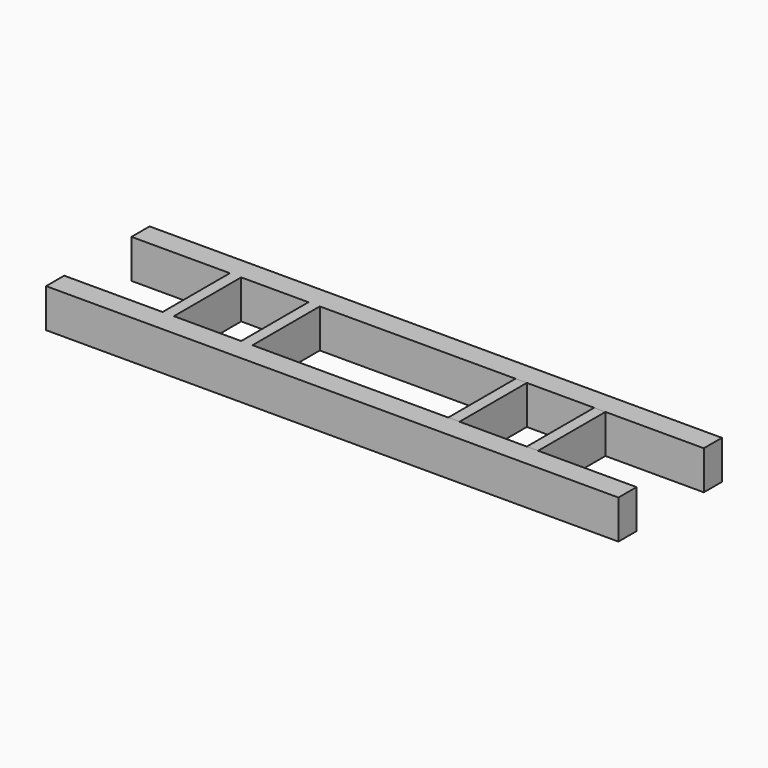
from build123d import *

# Parameters (mm, degrees)
F0_W     = 695
F0_H     = 650
F1_DEPTH = 300
F2_W     = 520
F2_H     = 650
F2_W_2   = 175
F3_DEPTH = 300.001
F4_W     = 695
F4_H     = 650
F5_DEPTH = 300
F6_W     = 520
F6_H     = 650
F7_DEPTH = 300.001
F8_W     = 520
F8_H     = 650
F9_DEPTH = 300.001


with BuildPart() as f1:
    # F0 (on Top) → F1 (new body)
    with BuildSketch(Plane.XY):
        Polygon((-2556.1617680192, -990.2275687945), (-3316.6617680192, -990.2275687945), (-3316.6617680192, -1165.2275687945), (1107.3382319808, -1165.2275687945), (1107.3382319808, -990.2275687945), (346.8382319808, -990.2275687945), (-348.1617680192, -990.2275687945), (-1861.1617680192, -990.2275687945), align=None)
        with Locations((-2208.6617680192, -665.2275687945)):
            Rectangle(F0_W, F0_H)
        Polygon((-3316.6617680192, -340.2275687945), (-2556.1617680192, -340.2275687945), (-1861.1617680192, -340.2275687945), (-348.1617680192, -340.2275687945), (346.8382319808, -340.2275687945), (1107.3382319808, -340.2275687945), (1107.3382319808, -165.2275687945), (-3316.6617680192, -165.2275687945), align=None)
        with Locations((-0.6617680192, -665.2275687945)):
            Rectangle(F0_W, F0_H)
    extrude(amount=F1_DEPTH)

    # F2 (on face) → F3 (cut, through all)
    with BuildSketch(Plane.XY.offset(300)):
        with Locations((-2208.6617680192, -665.2275687945)):
            Rectangle(F2_W, F2_H)
        with Locations((-3316.6617680192, -665.2275687945)):
            Rectangle(F2_W_2, F2_H)
    extrude(amount=-F3_DEPTH, mode=Mode.SUBTRACT)


with BuildPart() as f5:
    # F4 (on face) → F5 (new body)
    with BuildSketch(Plane.XY.offset(300)):
        with Locations((-0.6617680192, -665.2275687945)):
            Rectangle(F4_W, F4_H)
    extrude(amount=-F5_DEPTH)


with BuildPart() as f7_tool:
    # F6 (on face) → F7 (new body, through all)
    with BuildSketch(Plane.XY.offset(300)):
        with Locations((-0.6617680192, -665.2275687945)):
            Rectangle(F6_W, F6_H)
    extrude(amount=-F7_DEPTH)


with BuildPart() as f1_1:
    add(f1.part)

    # F7: cut by f7_tool
    add(f7_tool.part, mode=Mode.SUBTRACT)

    # F8 (on face) → F9 (cut, through all)
    with BuildSketch(Plane.XY.offset(300)):
        with Locations((-0.6617680192, -665.2275687945)):
            Rectangle(F8_W, F8_H)
    extrude(amount=-F9_DEPTH, mode=Mode.SUBTRACT)


with BuildPart() as f5_1:
    add(f5.part)

    # F7: cut by f7_tool
    add(f7_tool.part, mode=Mode.SUBTRACT)


solid = Compound([f1_1.part, f5_1.part])
